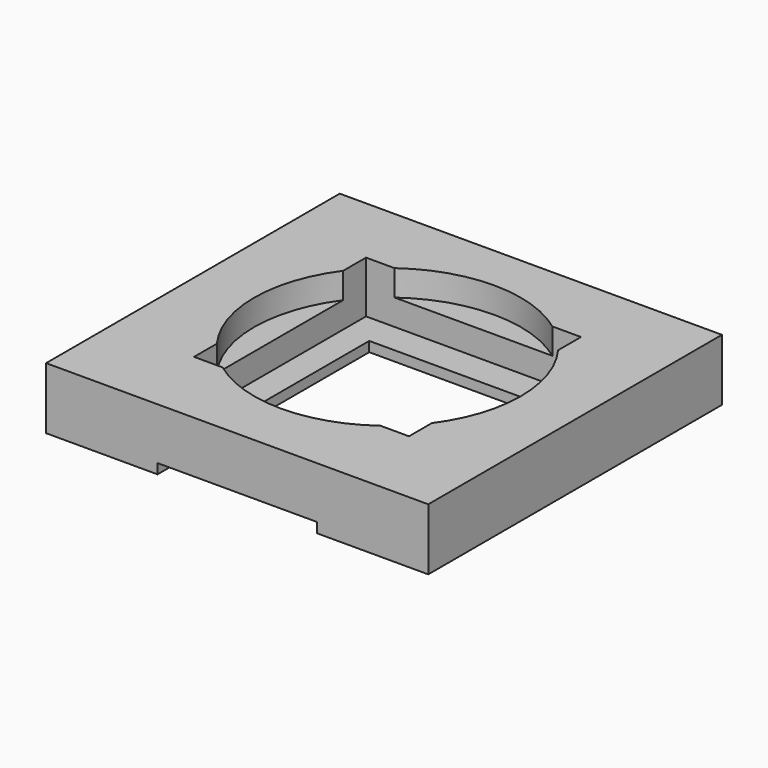
from build123d import *

# Parameters (mm, degrees)
PAD009_DEPTH      = 10
PAD009_DEPTH_BACK = 10
SKETCH_W          = 4
SKETCH_H          = 7.426
PAD008_DEPTH      = 1
SKETCH007_R       = 3.35
PAD007_DEPTH      = 1.5
SKETCH006_W       = 5.4
SKETCH006_H       = 5.4
PAD006_DEPTH      = 5
SKETCH001_W       = 9.6
SKETCH001_H       = 9.22
PAD_DEPTH         = 1.3
PAD_DEPTH_BACK    = 0.25


with BuildPart() as bottom_cut_avoid_thin_bridge:
    # Sketch008 → Pad009 (new body, two sides)
    with BuildSketch(Plane.XY) as pad009_sk:
        with BuildLine():
            Line((-1.982914, -2.691867), (1.982914, -2.691867))
            add(Edge.make_bspline(
                [(1.982914, -2.691867), (1.306801, -3.14996), (0.04804, -3.514381), (-1.402881, -3.141278), (-1.982914, -2.691867)],
                knots=[0, 0, 0, 0, 0.5, 1, 1, 1, 1], degree=3))
        make_face()
    extrude(amount=PAD009_DEPTH)
    extrude(pad009_sk.sketch, amount=-PAD009_DEPTH_BACK)


with BuildPart() as sensor_entrance_channel_cut:
    # Sketch → Pad008 (new body)
    with BuildSketch(Plane.XY):
        with Locations((0, -1.787)):
            Rectangle(SKETCH_W, SKETCH_H)
    extrude(amount=-PAD008_DEPTH)


with BuildPart() as o_ring_cutout:
    # Sketch007 → Pad007 (new body)
    with BuildSketch(Plane.XY):
        Circle(SKETCH007_R)
    extrude(amount=PAD007_DEPTH)


with BuildPart() as o_ring_cutout_1:
    # Body007 placement: moved
    add(o_ring_cutout.part.moved(Location((0, 0, 0.65))))


with BuildPart() as glass_cutout:
    # Sketch006 → Pad006 (new body)
    with BuildSketch(Plane.XY):
        Rectangle(SKETCH006_W, SKETCH006_H)
    extrude(amount=PAD006_DEPTH)


with BuildPart() as cut003:
    # Sketch001 → Pad (new body, two sides)
    with BuildSketch(Plane.XY) as pad_sk:
        with Locations((0, -0.61)):
            Rectangle(SKETCH001_W, SKETCH001_H)
    extrude(amount=PAD_DEPTH)
    extrude(pad_sk.sketch, amount=-PAD_DEPTH_BACK)


with BuildPart() as cut003_1:
    # Body001 placement: moved
    add(cut003.part.moved(Location((0, 0.5, 0))))

    # Cut: cut Glass _cutout
    add(glass_cutout.part, mode=Mode.SUBTRACT)

    # Cut001: cut O-ring_Cutout
    add(o_ring_cutout_1.part, mode=Mode.SUBTRACT)

    # Cut002: cut sensor entrance channel cut
    add(sensor_entrance_channel_cut.part, mode=Mode.SUBTRACT)

    # Cut003: cut Bottom_Cut_avoid_thin_bridge
    add(bottom_cut_avoid_thin_bridge.part, mode=Mode.SUBTRACT)


solid = cut003_1.part
